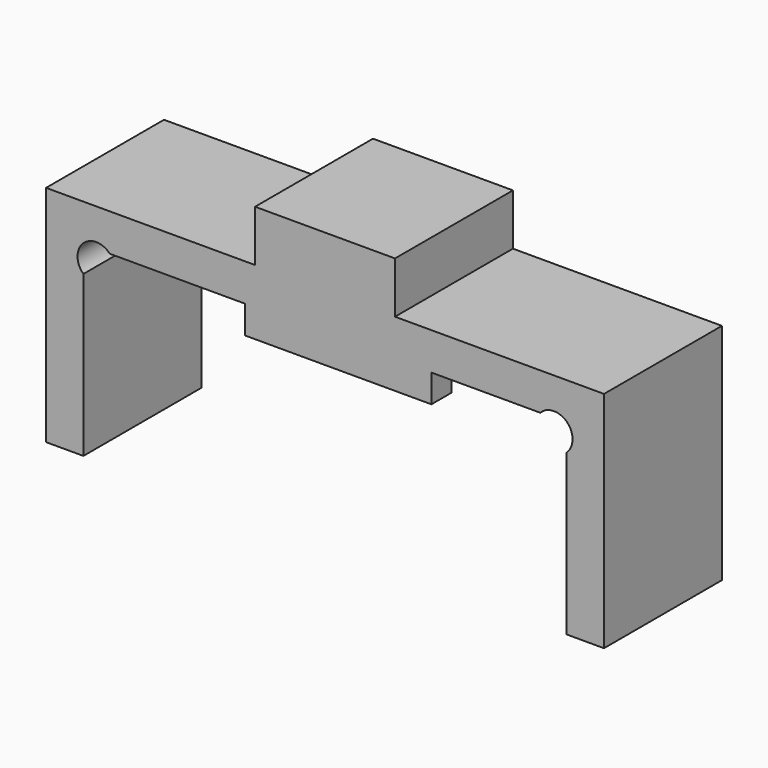
from build123d import *

# Parameters (mm, degrees)
F1_DEPTH = 15.8
F2_W     = 20
F2_H     = 3
F3_DEPTH = 2.7
F4_W     = 15
F4_H     = 15.8
F5_DEPTH = 5.5
F6_R     = 2
F7_DEPTH = 15.801


with BuildPart() as f1:
    # F0 (on Front) → F1 (new body)
    with BuildSketch(Plane.XZ):
        Polygon((-25.9, -20), (-25.9, 0), (25.9, 0), (25.9, -20), (29.9, -20), (29.9, 4), (-29.9, 4), (-29.9, -20), align=None)
    extrude(amount=F1_DEPTH)

    # F2 (on face) → F3 (join)
    with BuildSketch(Plane.XZ.offset(15.8)):
        with Locations((1.4, -1.5)):
            Rectangle(F2_W, F2_H)
    extrude(amount=-F3_DEPTH)

    # F4 (on face) → F5 (join)
    with BuildSketch(Plane.XY.offset(4)):
        with Locations((0, -7.9)):
            Rectangle(F4_W, F4_H)
    extrude(amount=F5_DEPTH)

    # F6 (on face) → F7 (cut, through all)
    with BuildSketch(Plane.XZ.offset(15.8)):
        with Locations((-24.52996, -1.37004)):
            Circle(F6_R)
        with Locations((24.52996, -1.37004)):
            Circle(F6_R)
    extrude(amount=-F7_DEPTH, mode=Mode.SUBTRACT)


solid = f1.part
